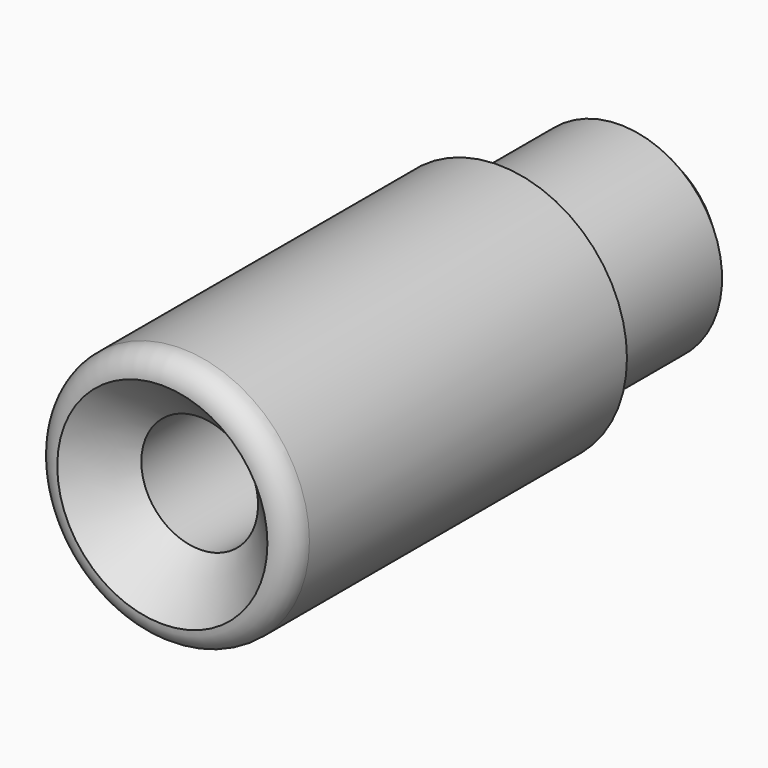
from build123d import *

# Parameters (mm, degrees)
F0_R           = 5.5
F1_DEPTH       = 18
F2_R           = 1
F3_R           = 4.375
F4_DEPTH       = 7.5
F5_SIZE        = 1
F7_D           = 5
F7_CSINK_D     = 9
F7_CSINK_ANGLE = 90


with BuildPart() as f1:
    # F0 (on Front) → F1 (new body)
    with BuildSketch(Plane.XZ):
        Circle(F0_R)
    extrude(amount=F1_DEPTH)

    # F2
    f2_edges = [f1.edges().sort_by_distance(p)[0] for p in [
        (-5.5, -18, 0),
    ]]
    fillet(f2_edges, radius=F2_R)

    # F3 (on face) → F4 (join)
    with BuildSketch(Plane(origin=(0, 0, 0), x_dir=(-1, 0, 0), z_dir=(0, 1, 0))):
        Circle(F3_R)
    extrude(amount=F4_DEPTH)

    # F5
    f5_edges = [f1.edges().sort_by_distance(p)[0] for p in [
        (4.375, 7.5, 0),
    ]]
    chamfer(f5_edges, length=F5_SIZE)

    # F7 (through all)
    with Locations(Plane.XZ.offset(18)):
        with Locations((0, 0)):
            CounterSinkHole(F7_D / 2, F7_CSINK_D / 2, counter_sink_angle=F7_CSINK_ANGLE)


solid = f1.part
